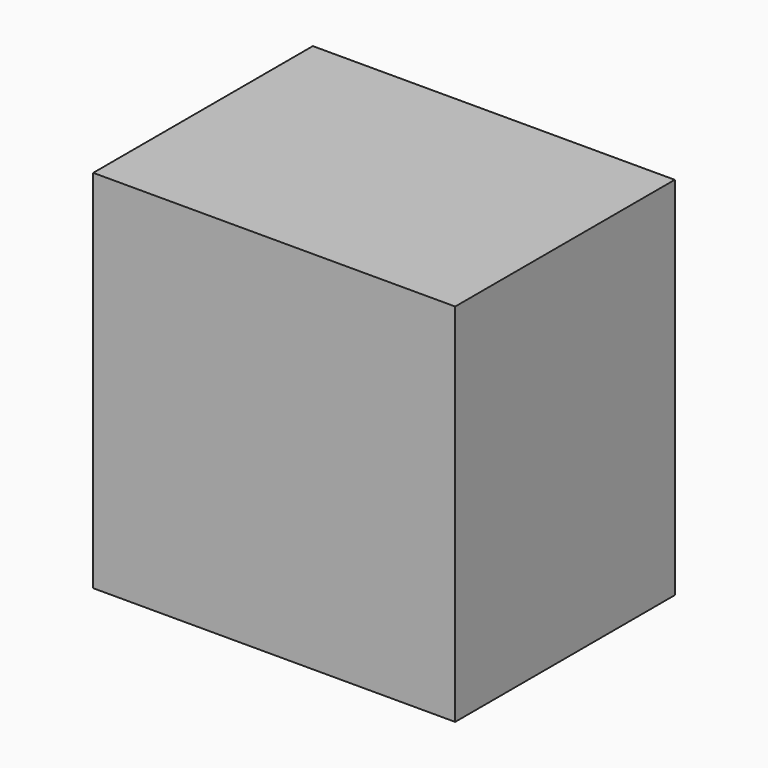
from build123d import *

# Parameters (mm, degrees)
F0_W      = 82.151346
F0_H      = 57.600818
F1_DEPTH  = 31.14925
F1_FACE_W = 82.151346
F1_FACE_H = 62.2985
F2_DEPTH  = 25.4


with BuildPart() as f1:
    # F0 (on Front) → F1 (new body, symmetric)
    with BuildSketch(Plane.XZ):
        Rectangle(F0_W, F0_H)
    extrude(amount=F1_DEPTH, both=True)

    # F1_face (on face) → F2 (join)
    with BuildSketch(Plane.XY.offset(28.800409)):
        Rectangle(F1_FACE_W, F1_FACE_H)
    extrude(amount=F2_DEPTH)


solid = f1.part
